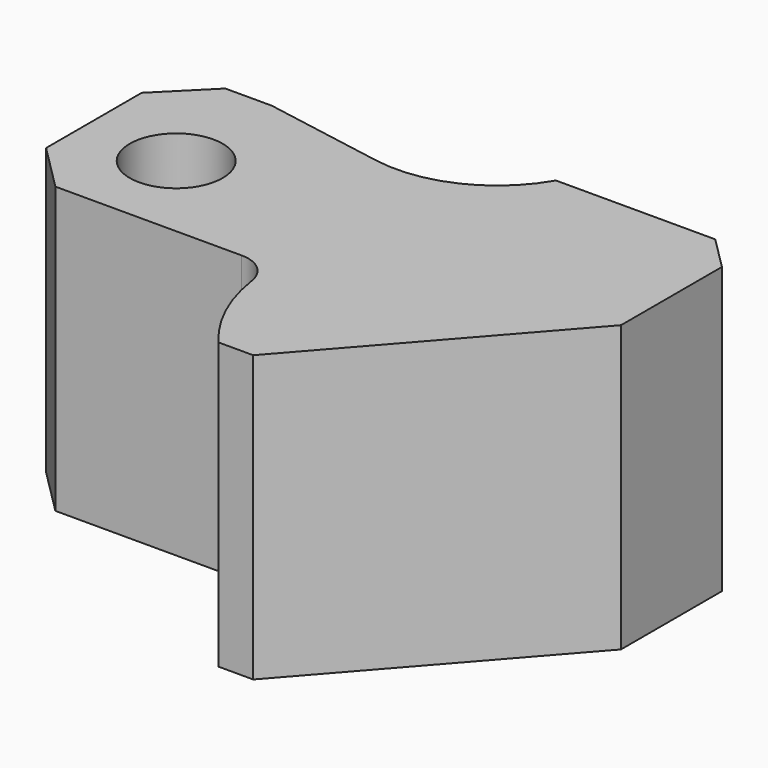
from build123d import *

# Parameters (mm, degrees)
F0_R     = 7
F1_DEPTH = 21.5


with BuildPart() as f1:
    # F0 (on Top) → F1 (new body, symmetric)
    with BuildSketch(Plane.XY):
        with BuildLine():
            Line((-7, 18), (-14, 11))
            Line((-14, 11), (-14, -7))
            Line((-14, -7), (-7, -14))
            Line((-7, -14), (21.0666262554, -14))
            ThreePointArc((21.0666262554, -14), (24.3318620364, -15.2134137678), (26.0122649968, -18.2647058824))
            ThreePointArc((26.0122649968, -18.2647058824), (28.3490951999, -26.115672061), (32.7880673968, -33))
            Line((32.7880673968, -33), (38, -33))
            Line((38, -33), (67, 0))
            Line((67, 0), (67, 19))
            Line((67, 19), (62, 24))
            Line((62, 24), (38, 24))
            ThreePointArc((38, 24), (29.5749729609, 16.2760691513), (18.2430849879, 14.7832519053))
            Line((18.2430849879, 14.7832519053), (0, 18))
            Line((0, 18), (-7, 18))
        make_face()
        Circle(F0_R, mode=Mode.SUBTRACT)
    extrude(amount=F1_DEPTH, both=True)


solid = f1.part
